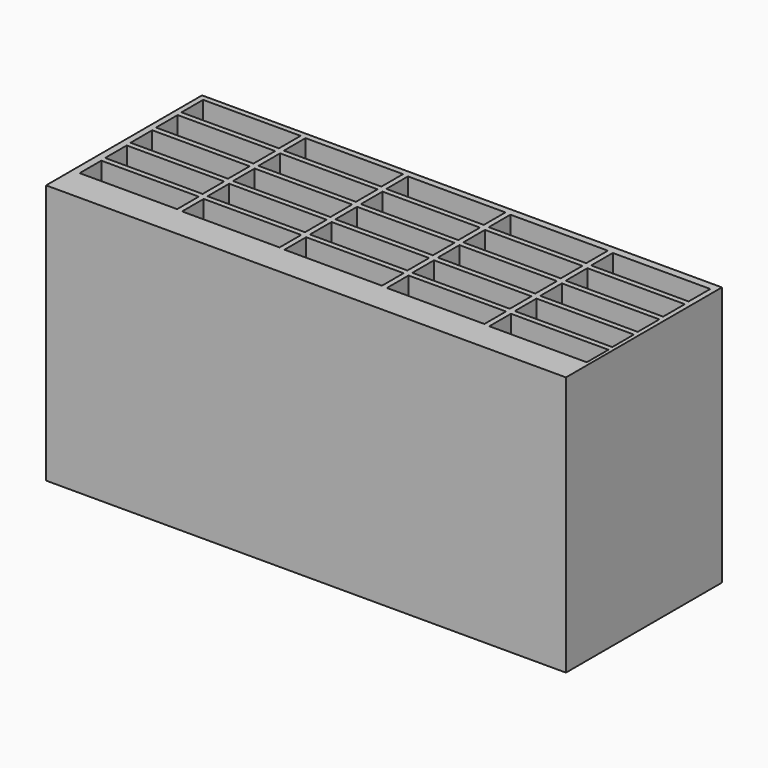
from build123d import *

# Parameters (mm, degrees)
F0_W     = 2438.4
F0_H     = 1219.2
F1_DEPTH = 457.2
F2_W     = 457.2
F2_H     = 127
F3_DEPTH = 457.2


with BuildPart() as f1:
    # F0 (on Front) → F1 (new body, symmetric)
    with BuildSketch(Plane.XZ):
        Rectangle(F0_W, F0_H)
    extrude(amount=F1_DEPTH, both=True)

    # F2 (on face) → F3 (cut)
    with BuildSketch(Plane.XY.offset(609.6)):
        with Locations((-965.2, 368.3)):
            Rectangle(F2_W, F2_H)
        with Locations((-962.697564, 215.920547)):
            Rectangle(F2_W, F2_H)
        with Locations((-960.195127, 63.541093)):
            Rectangle(F2_W, F2_H)
        with Locations((-957.692691, -88.83836)):
            Rectangle(F2_W, F2_H)
        with Locations((-955.190254, -241.217814)):
            Rectangle(F2_W, F2_H)
        with Locations((-482.607881, 365.542049)):
            Rectangle(F2_W, F2_H)
        with Locations((-480.105444, 213.162596)):
            Rectangle(F2_W, F2_H)
        with Locations((-477.603008, 60.783143)):
            Rectangle(F2_W, F2_H)
        with Locations((-475.100571, -91.596311)):
            Rectangle(F2_W, F2_H)
        with Locations((-472.598135, -243.975764)):
            Rectangle(F2_W, F2_H)
        with Locations((-0.015761, 362.784099)):
            Rectangle(F2_W, F2_H)
        with Locations((2.486675, 210.404645)):
            Rectangle(F2_W, F2_H)
        with Locations((4.989112, 58.025192)):
            Rectangle(F2_W, F2_H)
        with Locations((7.491548, -94.354261)):
            Rectangle(F2_W, F2_H)
        with Locations((9.993984, -246.733715)):
            Rectangle(F2_W, F2_H)
        with Locations((482.576358, 360.026148)):
            Rectangle(F2_W, F2_H)
        with Locations((485.078795, 207.646695)):
            Rectangle(F2_W, F2_H)
        with Locations((487.581231, 55.267242)):
            Rectangle(F2_W, F2_H)
        with Locations((490.083667, -97.112212)):
            Rectangle(F2_W, F2_H)
        with Locations((492.586104, -249.491665)):
            Rectangle(F2_W, F2_H)
        with Locations((965.168478, 357.268198)):
            Rectangle(F2_W, F2_H)
        with Locations((967.670914, 204.888744)):
            Rectangle(F2_W, F2_H)
        with Locations((970.17335, 52.509291)):
            Rectangle(F2_W, F2_H)
        with Locations((972.675787, -99.870162)):
            Rectangle(F2_W, F2_H)
        with Locations((975.178223, -252.249616)):
            Rectangle(F2_W, F2_H)
    extrude(amount=-F3_DEPTH, mode=Mode.SUBTRACT)


solid = f1.part
